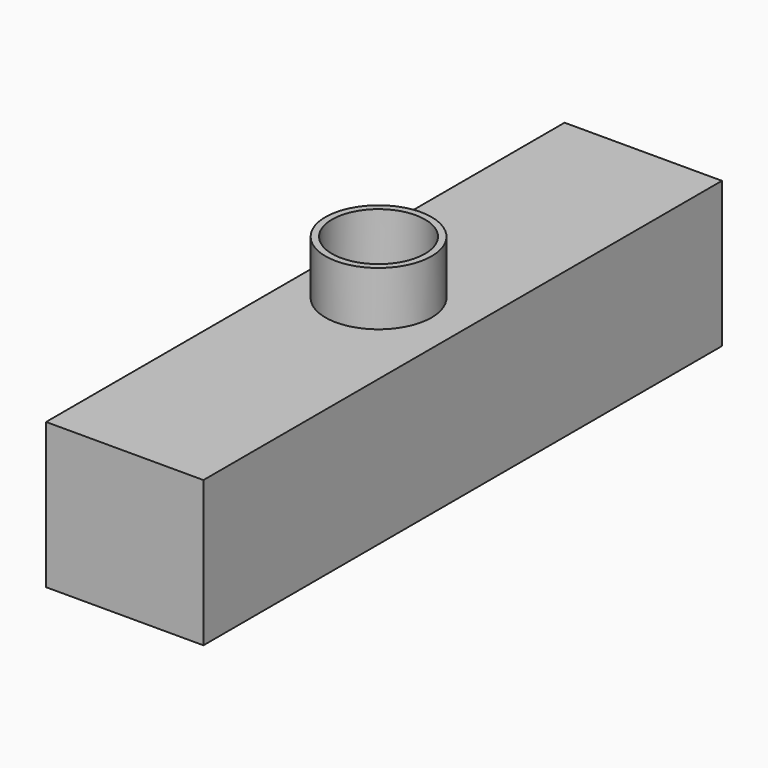
from build123d import *

# Parameters (mm, degrees)
F0_W     = 73.9969983697
F0_H     = 68.4239994735
F1_DEPTH = 304.8
F2_R     = 24.9557715144
F2_R_2   = 21.8658619352
F3_DEPTH = 25.4


with BuildPart() as f1:
    # F0 (on Front) → F1 (new body)
    with BuildSketch(Plane.XZ):
        with Locations((3.2509118319, 6.9662453607)):
            Rectangle(F0_W, F0_H)
    extrude(amount=F1_DEPTH)

    # F2 (on face) → F3 (join)
    with BuildSketch(Plane.XY.offset(41.1782450974)):
        with Locations((0, -151.5485793352)):
            Circle(F2_R)
        with Locations((0, -151.5485793352)):
            Circle(F2_R_2, mode=Mode.SUBTRACT)
    extrude(amount=F3_DEPTH)


solid = f1.part
